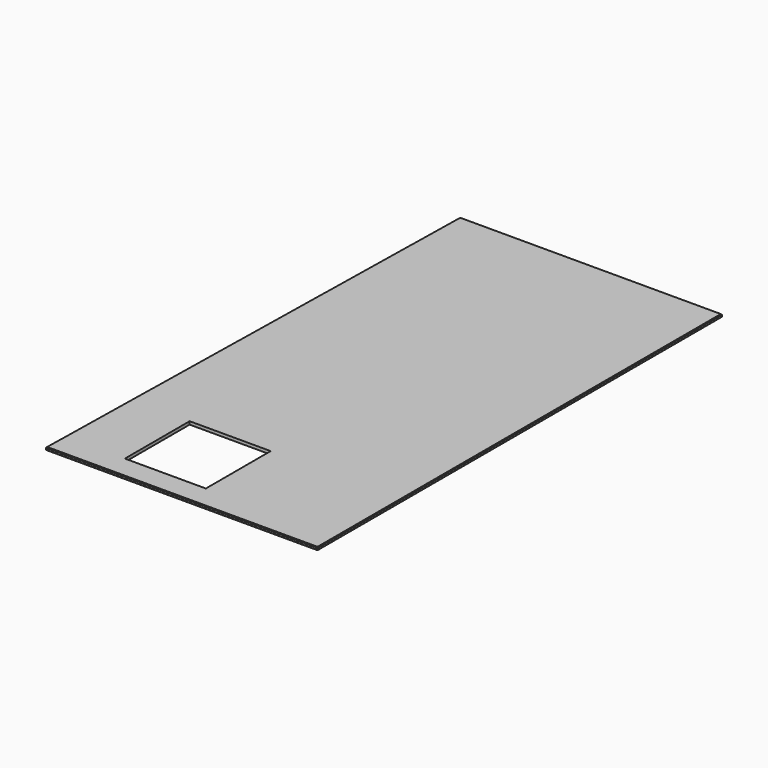
from build123d import *

# Parameters (mm, degrees)
F1_DEPTH = 2.5
F2_W     = 133
F2_H     = 133
F3_DEPTH = 5.001
F4_SIZE  = 1


with BuildPart() as f1:
    # F0 (on Top) → F1 (new body, symmetric)
    with BuildSketch(Plane.XY):
        Polygon((-207, 415), (-223, -415), (223, -415), (223, 415), align=None)
    extrude(amount=F1_DEPTH, both=True)

    # F2 (on face) → F3 (cut, through all)
    with BuildSketch(Plane.XY.offset(2.5)):
        with Locations((-57.5, -310.5)):
            Rectangle(F2_W, F2_H)
    extrude(amount=-F3_DEPTH, mode=Mode.SUBTRACT)

    # F4
    f4_edges = [f1.edges().sort_by_distance(p)[0] for p in [
        (-215, 0, 2.5),
        (-215, 0, -2.5),
        (8, 415, 2.5),
        (8, 415, -2.5),
        (223, 0, 2.5),
        (223, 0, -2.5),
        (0, -415, 2.5),
        (0, -415, -2.5),
    ]]
    chamfer(f4_edges, length=F4_SIZE)


solid = f1.part
